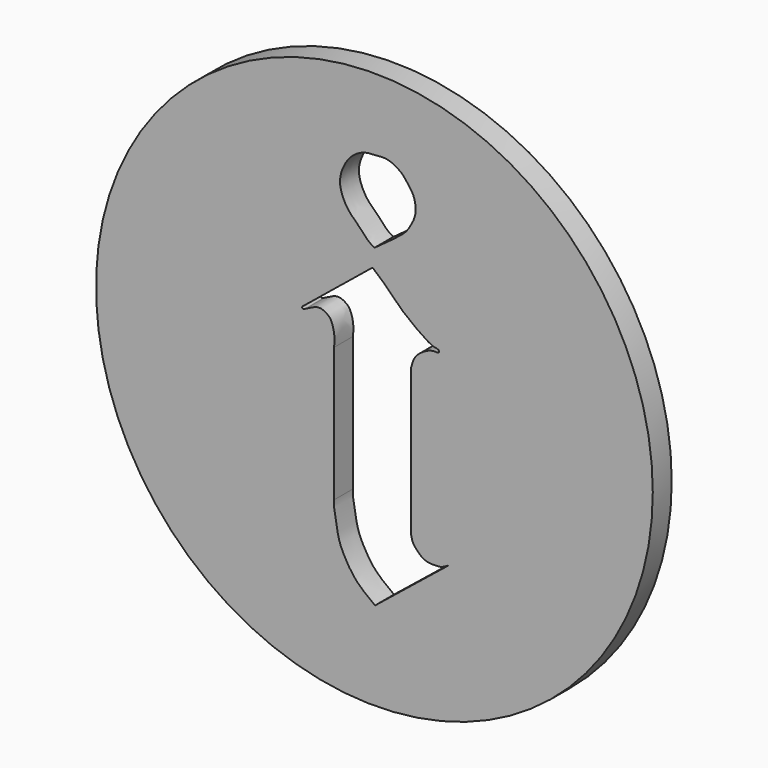
from build123d import *

# Parameters (mm, degrees)
F0_R     = 35.8722677543
F1_DEPTH = 3.048


with BuildPart() as f1:
    # F0 (on Front) → F1 (new body)
    with BuildSketch(Plane.XZ):
        with Locations((-16.5389925241, 0)):
            Circle(F0_R)
        with BuildLine():
            Line((-7.0172841661, -16.8818086386), (-16.4545532316, -24.4767442346))
            add(Edge.make_bspline(
                [(-16.4545532316, -24.4767442346), (-16.8368068171, -24.1939949846), (-17.6591396418, -23.5857234125), (-19.1498410611, -22.2695343414), (-20.1683555608, -20.6216308858), (-21.0775722167, -18.8965393574), (-21.4159472056, -17.0038620995), (-21.7830891286, -15.1529140615), (-21.7468870372, -14.4858724729), (-21.7320397496, -14.2123037949)],
                knots=[0, 0, 0, 0, 0.1335803654, 0.2873681853, 0.4404495382, 0.5922340471, 0.7460919747, 0.8958666386, 1, 1, 1, 1], degree=3))
            Line((-21.7320397496, -14.2123037949), (-21.7320397496, 3.0830921605))
            add(Edge.make_bspline(
                [(-25.3525003791, 6.3037872314), (-25.0035694122, 6.4840549077), (-24.4211323439, 6.784958487), (-23.9671240009, 6.9548534074), (-23.2729776472, 6.9757200424), (-22.5775088209, 6.5504818074), (-22.1244270369, 6.173485954), (-21.610740531, 4.6481096322), (-21.6911569949, 3.6105665011), (-21.7320397496, 3.0830921605)],
                knots=[0, 0, 0, 0, 0.1543245572, 0.2575992135, 0.3790212722, 0.5114796991, 0.6251869619, 0.8094495986, 1, 1, 1, 1], degree=3))
            add(Edge.make_bspline(
                [(-25.499086827, 6.6551566124), (-25.6385246281, 6.5602763851), (-25.8639647367, 6.4068760261), (-25.8485920944, 6.1900064814), (-25.7133319129, 6.107920989), (-25.4915746658, 6.2047990872), (-25.3967399547, 6.2722990707), (-25.3525003791, 6.3037872314)],
                knots=[0, 0, 0, 0, 0.2846359539, 0.4601934329, 0.6140274626, 0.8199471371, 1, 1, 1, 1], degree=3))
            Line((-25.499086827, 6.6551566124), (-16.7787857354, 13.7423193082))
            Line((-16.7787857354, 13.7423193082), (-15.3459142894, 12.4895032495))
            Line((-15.3459142894, 12.4895032495), (-12.911436148, 10.0866425782))
            Line((-12.911436148, 10.0866425782), (-11.1092906445, 8.6638955399))
            Line((-11.1092906445, 8.6638955399), (-9.5916930586, 7.6521639712))
            add(Edge.make_bspline(
                [(-9.5916930586, 7.6521639712), (-9.349729434, 7.5241534863), (-8.901127436, 7.2868212866), (-8.2178516893, 7.2340472433), (-8.2081308902, 6.9188765434), (-8.3758976081, 6.7811977964), (-8.7490682058, 6.8679608418), (-9.3993086232, 6.7593583892), (-9.9663047763, 6.4823224185), (-10.5756488537, 6.11491138), (-11.205548345, 5.5589280964), (-11.5528638282, 4.9166655347), (-11.7238497245, 4.3198587863), (-11.8153616786, 4.0004467592)],
                knots=[0, 0, 0, 0, 0.1084812333, 0.2011248513, 0.256700979, 0.3067833697, 0.3784833865, 0.4755646116, 0.5711165511, 0.6723420327, 0.7810491113, 0.8828170972, 1, 1, 1, 1], degree=3))
            Line((-11.8153616786, 4.0004467592), (-11.8153616786, 0))
            Line((-11.8153616786, 0), (-11.8153616786, -9.1262217611))
            Line((-11.8153616786, -9.1262217611), (-11.8153616786, -14.9436760694))
            add(Edge.make_bspline(
                [(-11.8153616786, -14.9436760694), (-11.752930028, -15.2417605806), (-11.6349053575, -15.8052780581), (-11.1592093747, -16.3296727482), (-10.6540369389, -16.9123160957), (-9.9771466257, -17.3074550788), (-9.2864785852, -17.4372864271), (-8.2735107194, -17.4033083883), (-7.8177957528, -17.3297418503), (-7.3118112692, -17.0466138374), (-7.0172841661, -16.8818086386)],
                knots=[0, 0, 0, 0, 0.1334555489, 0.25229266, 0.3778349348, 0.5020083005, 0.6239272043, 0.7656469646, 0.8635860924, 1, 1, 1, 1], degree=3))
        make_face(mode=Mode.SUBTRACT)
        with BuildLine():
            add(Edge.make_bspline(
                [(-16.5393147618, 16.0637069494), (-16.0952406112, 16.3723268092), (-15.1531884741, 17.0270282778), (-13.4519795924, 18.3410565916), (-12.307992004, 19.2477362645), (-11.7960339961, 20.2438380114), (-11.5315010771, 20.7585319877)],
                knots=[0, 0, 0, 0, 0.2477515115, 0.5255762818, 0.7548613575, 1, 1, 1, 1], degree=3))
            add(Edge.make_bspline(
                [(-11.5315010771, 20.7585319877), (-11.3886353445, 21.131794299), (-11.0776192325, 21.9443795897), (-11.422463862, 23.7306869337), (-12.2198755022, 24.6869108683), (-13.0056152853, 25.8167281527), (-14.8153986013, 26.8110341086), (-16.3083312279, 26.5741886558), (-17.7349189872, 26.6068206692), (-19.3878002125, 25.774154561), (-20.5117985183, 24.2148361341), (-21.1179317123, 22.375294743), (-20.7808520416, 20.7288316555), (-19.8509306492, 19.0194517847), (-18.4767807189, 17.9221470779), (-17.54650896, 16.6853845369), (-16.8593317149, 16.2612332732), (-16.5393147618, 16.0637069494)],
                knots=[0, 0, 0, 0, 0.0591766629, 0.1288265232, 0.1875414136, 0.2494013304, 0.3235814023, 0.3879482515, 0.4504797153, 0.5207736845, 0.5940792329, 0.6664881359, 0.7341792345, 0.8072636763, 0.8777722528, 0.9430788032, 1, 1, 1, 1], degree=3))
        make_face(mode=Mode.SUBTRACT)
    extrude(amount=F1_DEPTH)


solid = f1.part
